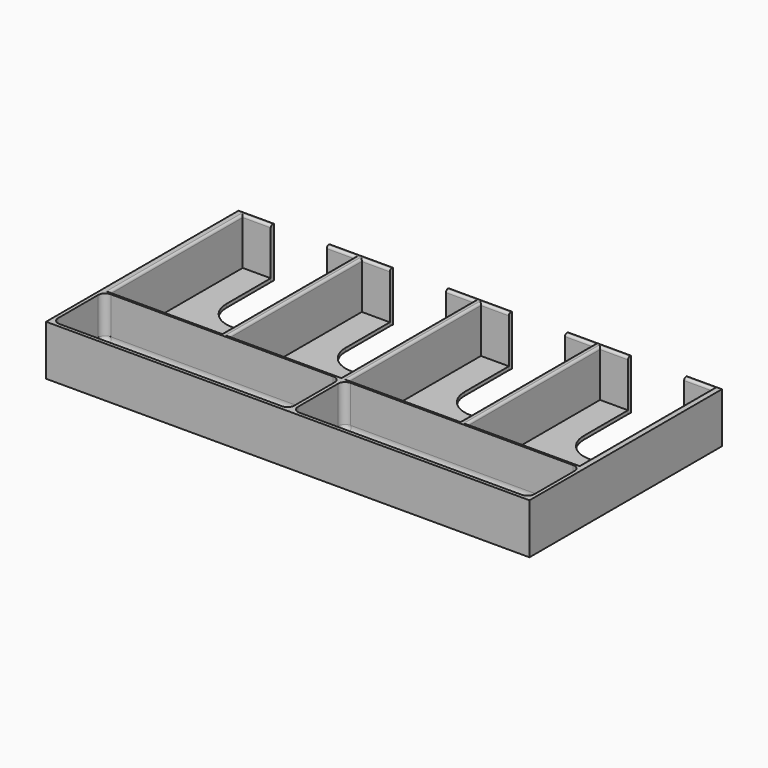
from build123d import *

# Parameters (mm, degrees)
SKETCH012_W     = 207
SKETCH012_H     = 103
PAD005_DEPTH    = 21.5
SKETCH013_W     = 48
SKETCH013_H     = 71
SKETCH013_W_2   = 101.25
SKETCH013_H_2   = 27.5
POCKET007_DEPTH = 20
POCKET006_DEPTH = 21.501
FILLET_R        = 4
FILLET001_R     = 3
FILLET002_R     = 1


with BuildPart() as part:
    # Sketch012 → Pad005 (new body)
    with BuildSketch(Plane.XY):
        Rectangle(SKETCH012_W, SKETCH012_H)
    extrude(amount=PAD005_DEPTH)

    # Sketch013 (on Face6 of Pad005) → Pocket007 (cut)
    with BuildSketch(Plane.XY.offset(21.5)):
        with Locations((25.5, 14.5)):
            Rectangle(SKETCH013_W, SKETCH013_H)
        with Locations((-25.5, 14.5)):
            Rectangle(SKETCH013_W, SKETCH013_H)
        with Locations((-76.5, 14.5)):
            Rectangle(SKETCH013_W, SKETCH013_H)
        with Locations((-51.375, -36.25)):
            Rectangle(SKETCH013_W_2, SKETCH013_H_2)
        with Locations((76.5, 14.5)):
            Rectangle(SKETCH013_W, SKETCH013_H)
        with Locations((51.375, -36.25)):
            Rectangle(SKETCH013_W_2, SKETCH013_H_2)
    extrude(amount=-POCKET007_DEPTH, mode=Mode.SUBTRACT)

    # Sketch011 (on Face5 of Pocket007) → Pocket006 (cut, through all)
    with BuildSketch(Plane.XY.offset(21.5)):
        with BuildLine():
            ThreePointArc((-64.5, 50), (-76.5, 62), (-88.5, 50))
            Line((-88.5, 50), (-88.5, 26.333333))
            ThreePointArc((-88.5, 26.333333), (-76.5, 14.333333), (-64.5, 26.333333))
            Line((-64.5, 50), (-64.5, 26.333333))
        make_face()
        with BuildLine():
            ThreePointArc((-13.5, 50), (-25.5, 62), (-37.5, 50))
            Line((-37.5, 50), (-37.5, 26.333333))
            ThreePointArc((-37.5, 26.333333), (-25.5, 14.333333), (-13.5, 26.333333))
            Line((-13.5, 50), (-13.5, 26.333333))
        make_face()
        with BuildLine():
            ThreePointArc((37.5, 50), (25.5, 62), (13.5, 50))
            Line((13.5, 50), (13.5, 26.333333))
            ThreePointArc((13.5, 26.333333), (25.5, 14.333333), (37.5, 26.333333))
            Line((37.5, 50), (37.5, 26.333333))
        make_face()
        with BuildLine():
            ThreePointArc((88.5, 50), (76.5, 62), (64.5, 50))
            Line((64.5, 50), (64.5, 26.333333))
            ThreePointArc((64.5, 26.333333), (76.5, 14.333333), (88.5, 26.333333))
            Line((88.5, 50), (88.5, 26.333333))
        make_face()
    extrude(amount=-POCKET006_DEPTH, mode=Mode.SUBTRACT)

    # Fillet
    fillet_edges = [part.edges().sort_by_distance(p)[0] for p in [
        (51.375, -22.5, 1.5),
        (102, -36.25, 1.5),
        (51.375, -50, 1.5),
        (0.75, -36.25, 1.5),
        (-51.375, -22.5, 1.5),
        (-0.75, -36.25, 1.5),
        (-51.375, -50, 1.5),
        (-102, -36.25, 1.5),
    ]]
    fillet(fillet_edges, radius=FILLET_R)

    # Fillet001
    fillet001_edges = [part.edges().sort_by_distance(p)[0] for p in [
        (0.75, -50, 13.5),
        (-102, -50, 13.5),
        (102, -50, 13.5),
        (-0.75, -50, 13.5),
        (-0.75, -22.5, 13.5),
        (102, -22.5, 13.5),
        (-102, -22.5, 13.5),
        (0.75, -22.5, 13.5),
    ]]
    fillet(fillet001_edges, radius=FILLET001_R)

    # Fillet002
    fillet002_edges = [part.edges().sort_by_distance(p)[0] for p in [
        (76.5, -21, 21.5),
        (100.5, 14.5, 21.5),
        (52.5, 14.5, 21.5),
        (49.5, 14.5, 21.5),
        (25.5, -21, 21.5),
        (1.5, 14.5, 21.5),
        (-1.5, 14.5, 21.5),
        (-25.5, -21, 21.5),
        (-49.5, 14.5, 21.5),
        (-52.5, 14.5, 21.5),
        (-76.5, -21, 21.5),
        (-100.5, 14.5, 21.5),
        (94.5, 50, 21.5),
        (58.5, 50, 21.5),
        (43.5, 50, 21.5),
        (7.5, 50, 21.5),
        (-7.5, 50, 21.5),
        (-43.5, 50, 21.5),
        (-58.5, 50, 21.5),
        (-94.5, 50, 21.5),
    ]]
    fillet(fillet002_edges, radius=FILLET002_R)


solid = part.part
